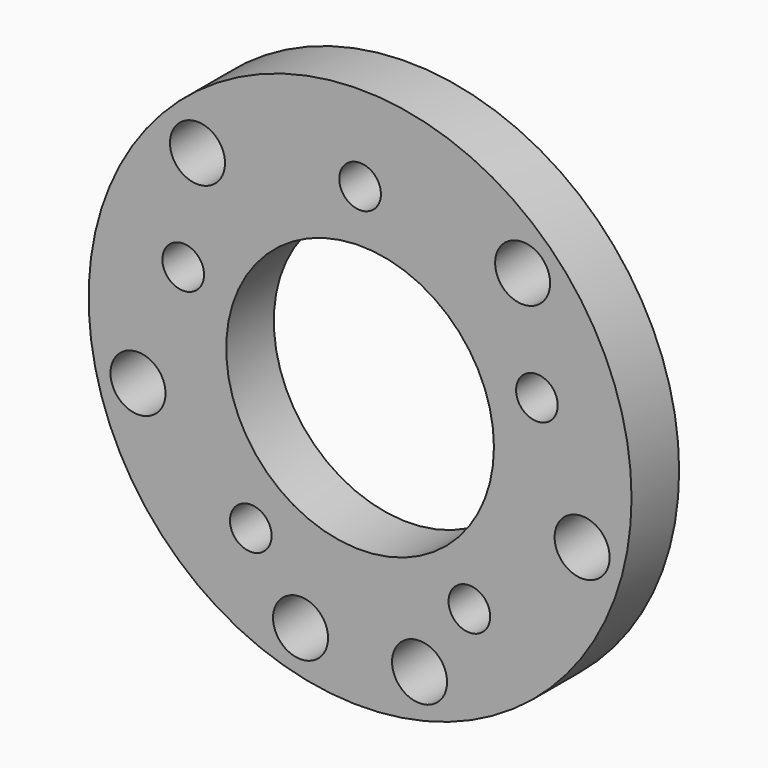
from build123d import *

# Parameters (mm, degrees)
F0_R     = 18.25
F0_R_2   = 1.4
F0_R_3   = 9
F1_DEPTH = 4
F2_R     = 1.85
F3_DEPTH = 25


with BuildPart() as f1:
    # F0 (on Front) → F1 (new body)
    with BuildSketch(Plane.XZ):
        Circle(F0_R)
        with Locations((-7.347316, -10.112712)):
            Circle(F0_R_2, mode=Mode.SUBTRACT)
        with Locations((7.347316, -10.112712)):
            Circle(F0_R_2, mode=Mode.SUBTRACT)
        with Locations((-11.888206, 3.862712)):
            Circle(F0_R_2, mode=Mode.SUBTRACT)
        Circle(F0_R_3, mode=Mode.SUBTRACT)
        with Locations((11.888206, 3.862712)):
            Circle(F0_R_2, mode=Mode.SUBTRACT)
        with Locations((0, 12.5)):
            Circle(F0_R_2, mode=Mode.SUBTRACT)
    extrude(amount=-F1_DEPTH)

    # F2 (on face) → F3 (cut)
    with BuildSketch(Plane(origin=(0, 4, 0), x_dir=(-1, 0, 0), z_dir=(0, 1, 0))):
        with Locations((-14.928203, -4)):
            Circle(F2_R)
        with Locations((-10.928203, 10.928203)):
            Circle(F2_R)
        with Locations((14.928203, -4)):
            Circle(F2_R)
        with Locations((10.928203, 10.928203)):
            Circle(F2_R)
        with Locations((4, -14.928203)):
            Circle(F2_R)
        with Locations((-4, -14.928203)):
            Circle(F2_R)
    extrude(amount=-F3_DEPTH, mode=Mode.SUBTRACT)


solid = f1.part
